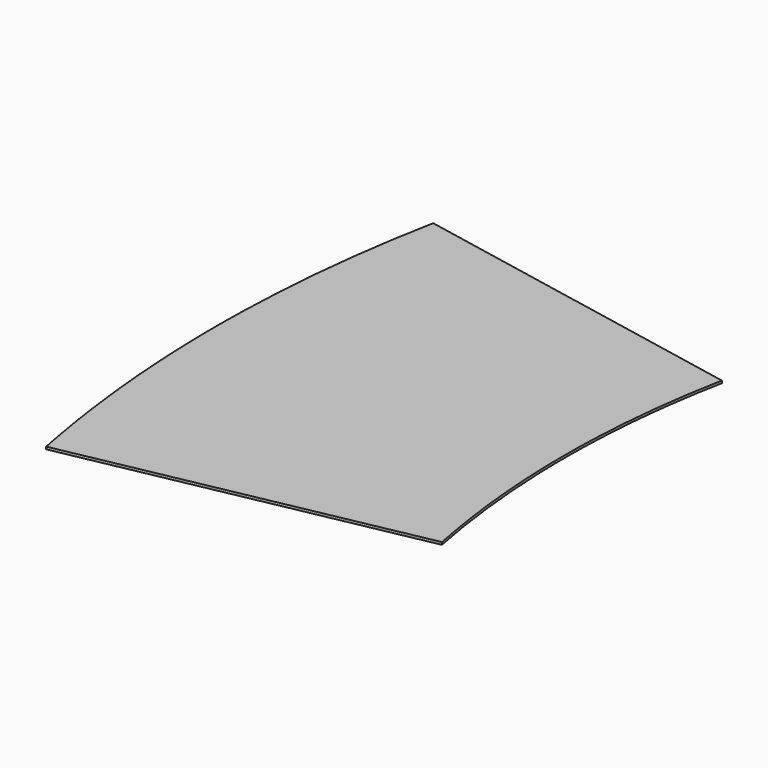
from build123d import *

# Parameters (mm, degrees)
F1_ANGLE = 22.5
F2_W     = 288.807087
F2_H     = 51.081525
F2_H_2   = 78.095803
F3_DEPTH = 119


with BuildPart() as f1:
    # F0 (on Front) → F1 (revolve, symmetric)
    with BuildSketch(Plane.XZ) as f1_sk:
        Polygon((151.432185, -1.281103), (4.433009, -1.773302), (4.499975, -21.77319), (151.499151, -21.280991), align=None)
    revolve(axis=Axis((525.838809, 0, 45.642252), (-0.176945, 0, 0.984221)), revolution_arc=F1_ANGLE / 2)
    revolve(f1_sk.sketch, axis=Axis((525.838809, 0, 45.642252), (0.176945, 0, -0.984221)), revolution_arc=F1_ANGLE / 2)

    # F2 (on Front) → F3 (cut, symmetric)
    with BuildSketch(Plane.XZ):
        with Locations((86.987576, 18.740762)):
            Rectangle(F2_W, F2_H)
        with Locations((86.987576, -46.847901)):
            Rectangle(F2_W, F2_H_2)
    extrude(amount=F3_DEPTH, both=True, mode=Mode.SUBTRACT)


solid = f1.part
